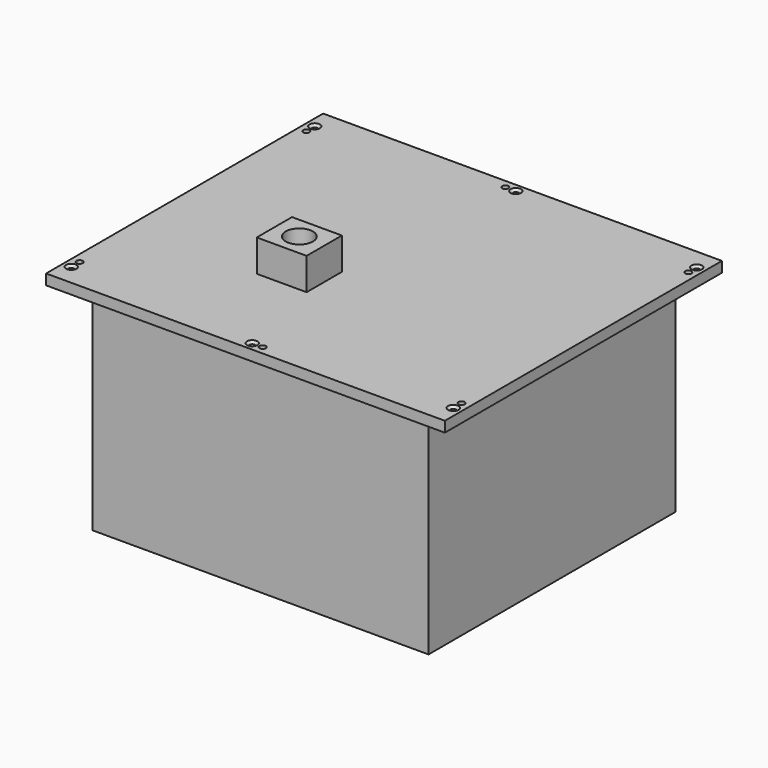
from build123d import *

# Parameters (mm, degrees)
F0_W           = 380
F0_H           = 330
F1_DEPTH       = 10
F2_W           = 320.3
F2_H           = 294.3
F3_DEPTH       = 203
F4_W           = 47.5
F4_H           = 42
F4_R           = 13
F5_DEPTH       = 30.5
F7_D           = 6
F7_DEPTH       = 10
F8_D           = 5.5
F8_DEPTH       = 10
F8_CSINK_D     = 10
F8_CSINK_ANGLE = 90


with BuildPart() as f1:
    # F0 (on Top) → F1 (new body)
    with BuildSketch(Plane.XY):
        Rectangle(F0_W, F0_H)
    extrude(amount=F1_DEPTH)

    # F2 (on face) → F3 (join)
    with BuildSketch(Plane(origin=(0, 0, 0), x_dir=(1, 0, 0), z_dir=(0, 0, -1))):
        Rectangle(F2_W, F2_H)
    extrude(amount=F3_DEPTH)

    # F4 (on face) → F5 (join)
    with BuildSketch(Plane.XY.offset(10)):
        with Locations((-43.5, -46.5)):
            Rectangle(F4_W, F4_H)
        with Locations((-43.5, -46.5)):
            Circle(F4_R, mode=Mode.SUBTRACT)
    extrude(amount=F5_DEPTH)

    # F7
    with Locations(Plane.XY.offset(10)):
        with Locations((-182, 135), (-182, -135), (182, 135), (182, -135), (10, -157), (-10, 157)):
            Hole(F7_D / 2, depth=F7_DEPTH)

    # F8
    with Locations(Plane.XY.offset(10)):
        with Locations((-182, 145), (182, 145), (-182, -145), (182, -145), (0, -157), (0, 157)):
            CounterSinkHole(F8_D / 2, F8_CSINK_D / 2, depth=F8_DEPTH, counter_sink_angle=F8_CSINK_ANGLE)


solid = f1.part
